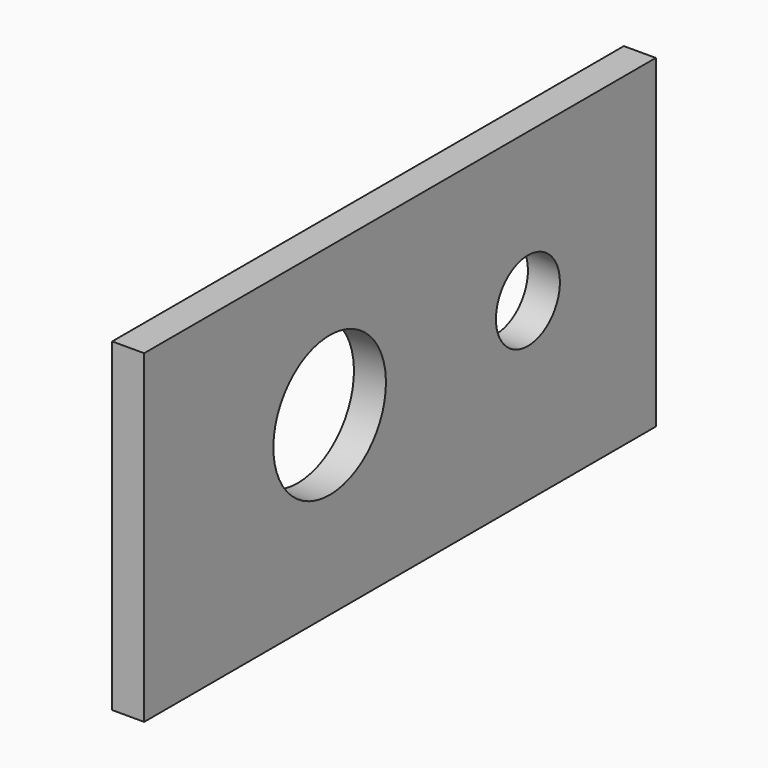
from build123d import *

# Parameters (mm, degrees)
SKETCH006_W    = 16
SKETCH006_H    = 5.3
SKETCH006_W_2  = 5.6
SKETCH006_H_2  = 4.4
CYLINDER_R     = 2.5
CYLINDER_DEPTH = 10
SKETCH_W       = 40
SKETCH_H       = 20.3
PAD005_DEPTH   = 2


with BuildPart() as power_socket_mockup:
    # Sketch006 → Revolution (revolve)
    with BuildSketch(Plane.XZ):
        with Locations((8, -2.65)):
            Rectangle(SKETCH006_W, SKETCH006_H)
        with Locations((-2.8, -2.2)):
            Rectangle(SKETCH006_W_2, SKETCH006_H_2)
    revolve(axis=Axis((0, 0, 0), (1, 0, 0)))


with BuildPart() as power_socket_mockup_1:
    # Body005 placement: moved
    add(power_socket_mockup.part.moved(Location((-36, -5.5, 11))))


with BuildPart() as wire_hole:
    # Cylinder → Cylinder (new body)
    with BuildSketch(Plane(origin=(-41, 10, 11), x_dir=(0, 0, -1), z_dir=(1, 0, 0))):
        Circle(CYLINDER_R)
    extrude(amount=CYLINDER_DEPTH)


with BuildPart() as power_holes_cut:
    # Sketch → Pad005 (new body)
    with BuildSketch(Plane.YZ.offset(28.5)):
        with Locations((0, 10.15)):
            Rectangle(SKETCH_W, SKETCH_H)
    extrude(amount=PAD005_DEPTH)


with BuildPart() as power_holes_cut_1:
    # Body003 placement: moved
    add(power_holes_cut.part.moved(Location((-67, 0, 0))))

    # Cut: cut wire_hole
    add(wire_hole.part, mode=Mode.SUBTRACT)

    # Cut002: cut power socket mockup
    add(power_socket_mockup_1.part, mode=Mode.SUBTRACT)


solid = power_holes_cut_1.part
